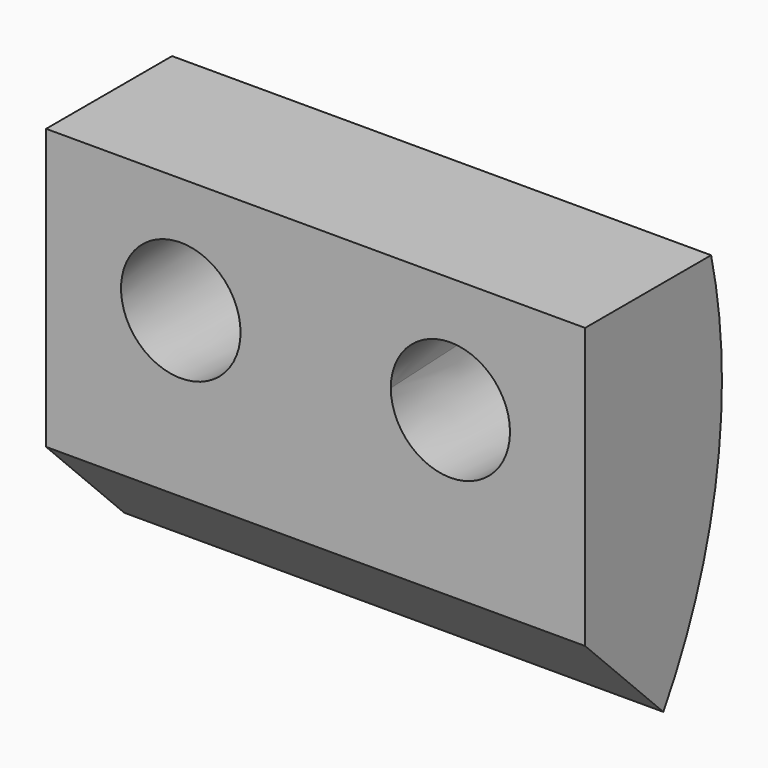
from build123d import *

# Parameters (mm, degrees)
F2_DEPTH  = 140
F3_DEPTH  = 25.4
F6_W      = 215.1558175683
F6_H      = 84.3175165355
F7_DEPTH  = 140.001
F9_DEPTH  = 140.001
F5_R      = 15.5218481215
F10_DEPTH = 44.4123579555
F10_TAPER = -3


with BuildPart() as f2:
    # F1 (on offset) → F2 (new body)
    with BuildSketch(Plane.YZ.offset(-70)):
        with BuildLine():
            Line((0, 67.9838731885), (0, 0))
            Line((0, 0), (19.0113577992, 0))
            ThreePointArc((19.0113577992, 0), (14.1699092565, 35.2962658126), (0, 67.9838731885))
        make_face()
        with BuildLine():
            Line((19.0113577992, 0), (0, 0))
            Line((0, 0), (0, -67.971073091))
            ThreePointArc((0, -67.971073091), (14.1681854898, -35.2896292573), (19.0113577992, 0))
        make_face()
        with BuildLine():
            Line((0, 67.9838731885), (0, 0))
            Line((0, 0), (19.0113577992, 0))
            ThreePointArc((19.0113577992, 0), (14.1699092565, 35.2962658126), (0, 67.9838731885))
        make_face()
        with BuildLine():
            Line((19.0113577992, 0), (0, 0))
            Line((0, 0), (0, -67.971073091))
            ThreePointArc((0, -67.971073091), (14.1681854898, -35.2896292573), (19.0113577992, 0))
        make_face()
    extrude(amount=F2_DEPTH)

    # F3 (add): a face of the model
    f3_faces = [f2.faces().sort_by_distance(p)[0] for p in [
        (0, 0, 0.0064000487),
    ]]
    extrude(f3_faces, amount=F3_DEPTH)

    # F6 (on offset) → F7 (cut, through all)
    with BuildSketch(Plane.YZ.offset(-70)):
        with Locations((27.4681784213, 72.3114386201)):
            Rectangle(F6_W, F6_H)
    extrude(amount=F7_DEPTH, mode=Mode.SUBTRACT)

    # F8 (on face) → F9 (cut, through all)
    with BuildSketch(Plane(origin=(-70, 0, 0), x_dir=(0, -1, 0), z_dir=(-1, 0, 0))):
        Polygon((0, -67.971073091), (25.4, -67.971073091), (25.4, -42.571246624), align=None)
    extrude(amount=-F9_DEPTH, mode=Mode.SUBTRACT)

    # F5 (on face) → F10 (cut, through all)
    with BuildSketch(Plane.XZ.offset(25.4)):
        with Locations((-35.0152216852, 0)):
            Circle(F5_R)
        with BuildLine():
            ThreePointArc((50.4853369025, 0), (35.0099764764, 15.4753604261), (19.5346160504, 0))
            ThreePointArc((19.5346160504, 0), (35.0099764764, -15.4753604261), (50.4853369025, 0))
        make_face()
    extrude(amount=-F10_DEPTH, taper=F10_TAPER, mode=Mode.SUBTRACT)


solid = f2.part
